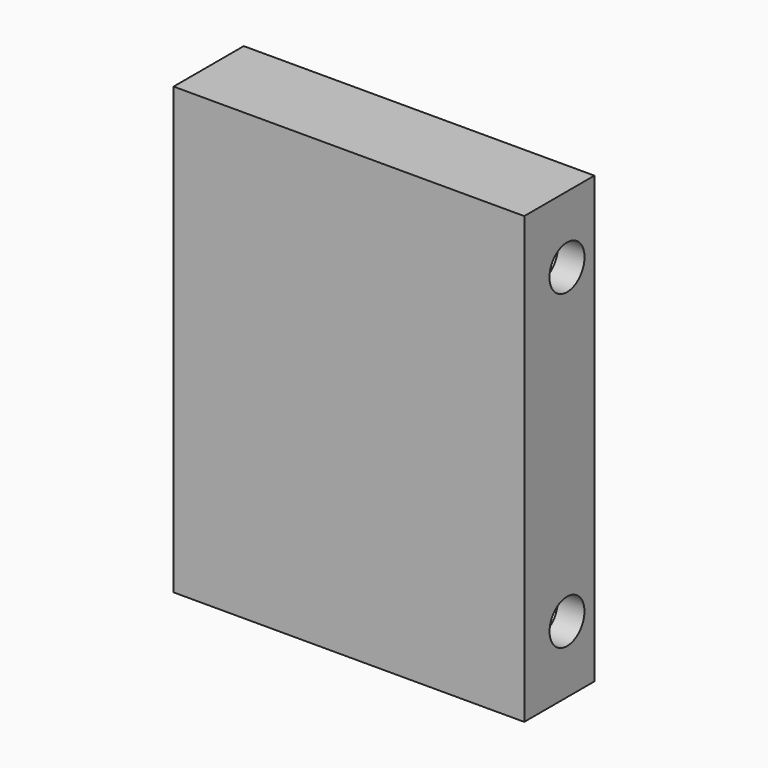
from build123d import *

# Parameters (mm, degrees)
F0_W     = 20
F0_H     = 25.4
F1_DEPTH = 5
F2_T     = -1.524
F3_R     = 1.25
F3_R_2   = 1.2446
F4_DEPTH = 25.4


with BuildPart() as f1:
    # F0 (on Front) → F1 (new body)
    with BuildSketch(Plane.XZ):
        Rectangle(F0_W, F0_H)
    extrude(amount=F1_DEPTH)

    # F2
    f2_openings = [f1.faces().sort_by_distance(p)[0] for p in [
        (0, 0, 0),
    ]]
    offset(amount=F2_T, openings=f2_openings)

    # F3 (on face) → F4 (cut)
    with BuildSketch(Plane.YZ.offset(10)):
        with Locations((-1.952, 8.89)):
            Circle(F3_R)
        with Locations((-1.952, -8.89)):
            Circle(F3_R_2)
    extrude(amount=-F4_DEPTH, mode=Mode.SUBTRACT)


solid = f1.part
